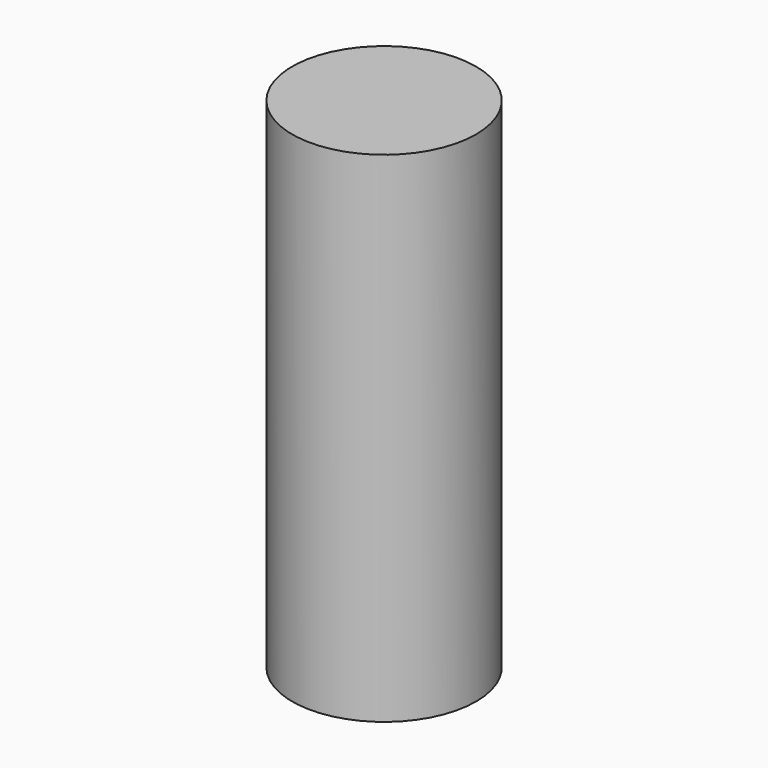
from build123d import *

# Parameters (mm, degrees)
F0_R     = 23.385551
F1_DEPTH = 127
F2_R     = 16.56705
F3_DEPTH = 76.2


with BuildPart() as f1:
    # F0 (on Top) → F1 (new body)
    with BuildSketch(Plane.XY):
        Circle(F0_R)
    extrude(amount=F1_DEPTH)


with BuildPart() as f3:
    # F2 (on Top) → F3 (new body)
    with BuildSketch(Plane.XY):
        Circle(F2_R)
    extrude(amount=F3_DEPTH)


with BuildPart() as f1_1:
    add(f1.part)

    # F4: cut F3
    add(f3.part, mode=Mode.SUBTRACT)


solid = f1_1.part
